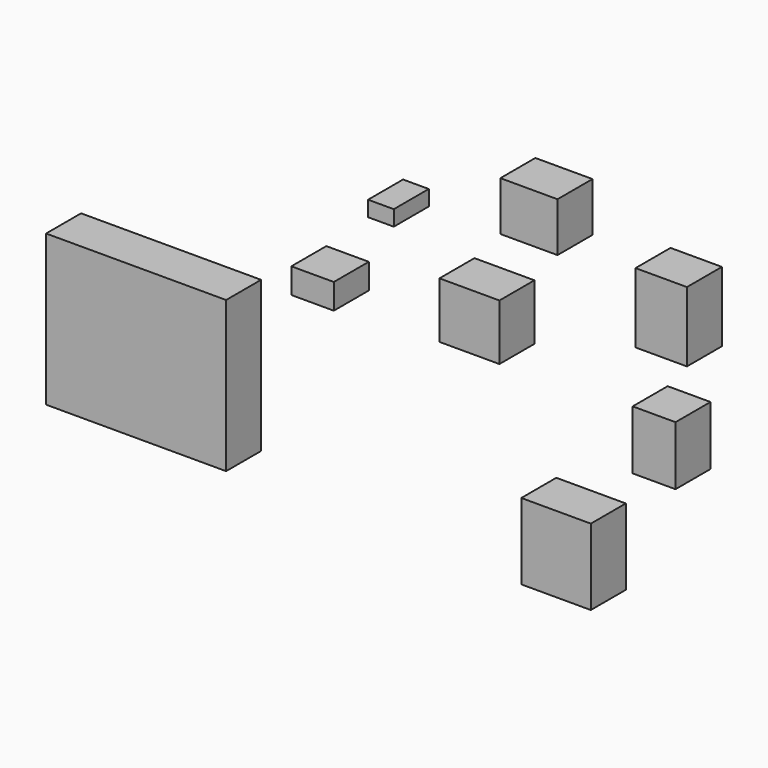
from build123d import *

# Parameters (mm, degrees)
F0_W     = 104.554787
F0_H     = 87.520579
F0_W_2   = 24.666995
F0_H_2   = 14.685676
F0_W_3   = 34.826107
F0_H_3   = 32.511771
F0_W_4   = 14.925468
F0_H_4   = 8.958474
F0_W_5   = 33.167705
F0_H_5   = 28.568178
F0_W_6   = 29.850945
F0_H_6   = 40.58151
F0_W_7   = 24.875745
F0_H_7   = 34.278608
F0_W_8   = 40.354044
F0_H_8   = 44.183087
F1_DEPTH = 25.4
F2_DEPTH = 25.4


with BuildPart() as f1:
    # F0 (on Front) → F1 (new body)
    with BuildSketch(Plane.XZ):
        with Locations((-90.16382, 54.920628)):
            Rectangle(F0_W, F0_H)
        with Locations((12.333498, 120.891474)):
            Rectangle(F0_W_2, F0_H_2)
        with Locations((103.440288, 133.800939)):
            Rectangle(F0_W_3, F0_H_3)
        with Locations((52.030353, 172.304906)):
            Rectangle(F0_W_4, F0_H_4)
        with Locations((137.98999, 198.501304)):
            Rectangle(F0_W_5, F0_H_5)
        with Locations((214.828513, 172.0367)):
            Rectangle(F0_W_6, F0_H_6)
        with Locations((210.682533, 103.951659)):
            Rectangle(F0_W_7, F0_H_7)
        with Locations((153.744638, 31.129998)):
            Rectangle(F0_W_8, F0_H_8)
    extrude(amount=F1_DEPTH)


with BuildPart() as f2:
    # F0 (on Front) → F2 (new body)
    with BuildSketch(Plane.XZ):
        with Locations((-90.16382, 54.920628)):
            Rectangle(F0_W, F0_H)
        with Locations((12.333498, 120.891474)):
            Rectangle(F0_W_2, F0_H_2)
        with Locations((103.440288, 133.800939)):
            Rectangle(F0_W_3, F0_H_3)
        with Locations((52.030353, 172.304906)):
            Rectangle(F0_W_4, F0_H_4)
        with Locations((137.98999, 198.501304)):
            Rectangle(F0_W_5, F0_H_5)
        with Locations((214.828513, 172.0367)):
            Rectangle(F0_W_6, F0_H_6)
        with Locations((210.682533, 103.951659)):
            Rectangle(F0_W_7, F0_H_7)
        with Locations((153.744638, 31.129998)):
            Rectangle(F0_W_8, F0_H_8)
    extrude(amount=F2_DEPTH)


solid = Compound([f1.part, f2.part])
